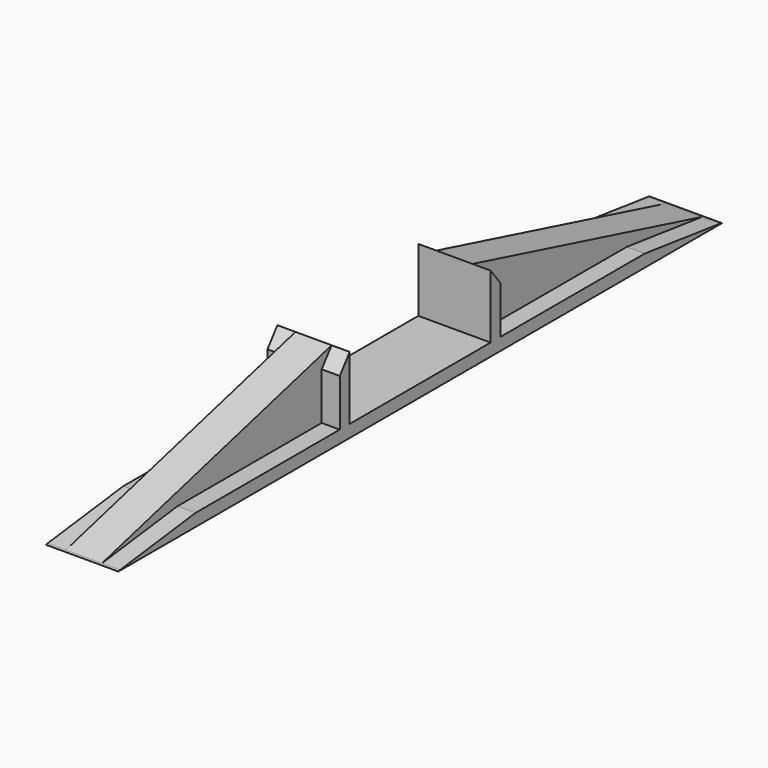
from build123d import *

# Parameters (mm, degrees)
F0_W          = 30.9372
F0_H          = 2.1844
F1_DEPTH      = 6.35
F1_DEPTH_BACK = 6.35
F2_DEPTH      = 3.175
F2_DEPTH_BACK = 3.175


with BuildPart() as f1:
    # F0 (on Right) → F1 (new body, two sides)
    with BuildSketch(Plane.YZ) as f1_sk:
        Polygon((-50.8, 0), (0, 0), (0, 2.1844), (-2.1844, 2.1844), (-33.852487, 2.1844), (-50.437497, 0.095026), align=None)
        with Locations((15.4686, 1.0922)):
            Rectangle(F0_W, F0_H)
        Polygon((30.9372, 2.1844), (30.9372, 0), (81.7372, 0), (81.374697, 0.095026), (64.789687, 2.1844), (33.1216, 2.1844), align=None)
        Polygon((30.9372, 13.316668), (30.9372, 2.1844), (33.1216, 2.1844), (33.1216, 10.485845), align=None)
        Polygon((-2.1844, 2.1844), (0, 2.1844), (0, 13.316668), (-2.1844, 10.485845), align=None)
    extrude(amount=F1_DEPTH)
    extrude(f1_sk.sketch, amount=-F1_DEPTH_BACK)

    # F0 (on Right) → F2 (join, two sides)
    with BuildSketch(Plane.YZ) as f2_sk:
        Polygon((-2.1844, 10.485845), (0, 13.316668), (-50.437497, 0.095026), (-33.852487, 2.1844), (-10.214526, 8.380835), align=None)
        Polygon((81.374697, 0.095026), (30.9372, 13.316668), (33.1216, 10.485845), (41.151726, 8.380835), (64.789687, 2.1844), align=None)
        Polygon((33.1216, 10.485845), (33.1216, 2.1844), (64.789687, 2.1844), (41.151726, 8.380835), align=None)
        Polygon((-33.852487, 2.1844), (-2.1844, 2.1844), (-2.1844, 10.485845), (-10.214526, 8.380835), align=None)
    extrude(amount=F2_DEPTH)
    extrude(f2_sk.sketch, amount=-F2_DEPTH_BACK)


solid = f1.part
